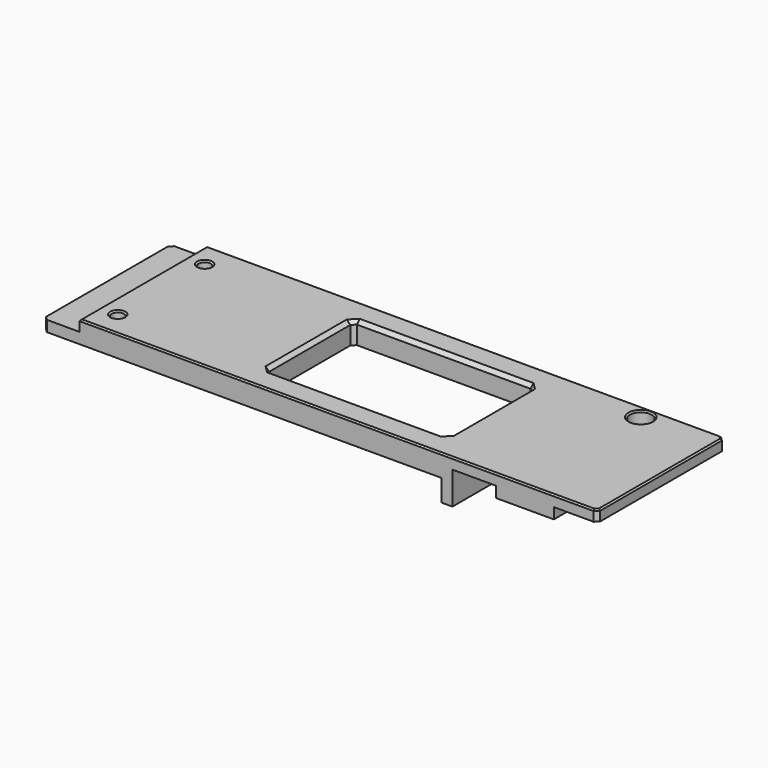
from build123d import *

# Parameters (mm, degrees)
CYLINDER031_R            = 1.7
CYLINDER031_DEPTH        = 30
CYLINDER032_R            = 1.7
CYLINDER032_DEPTH        = 30
BOX051014_W              = 50
BOX051014_H              = 30
BOX051014_DEPTH          = 6
CYLINDER027_R            = 1.7
CYLINDER027_DEPTH        = 10
CYLINDER028_R            = 3
CYLINDER028_DEPTH        = 10
BOX051013_W              = 10
BOX051013_H              = 44
BOX051013_DEPTH          = 3
BOX051015_W              = 3
BOX051015_H              = 44
BOX051015_DEPTH          = 6
BOX051010_W              = 16
BOX051010_H              = 44
BOX051010_DEPTH          = 3
BOX051009_W              = 40
BOX051009_H              = 44
BOX051009_DEPTH          = 3
BOX051011_W              = 8
BOX051011_H              = 8
BOX051011_DEPTH          = 3
BOX051012_W              = 103
BOX051012_H              = 44
BOX051012_DEPTH          = 6
CHAMFER034005002005_SIZE = 1
CHAMFER034005002006_SIZE = 0.4


with BuildPart() as cylinder031:
    # Cylinder031 → Cylinder031 (new body)
    with BuildSketch(Plane(origin=(-98, 37, -7), x_dir=(1, 0, 0), z_dir=(0, 0, 1))):
        Circle(CYLINDER031_R)
    extrude(amount=CYLINDER031_DEPTH)


with BuildPart() as fusion021005007:
    # Cylinder032 → Cylinder032 (new body)
    with BuildSketch(Plane(origin=(-98, 7, -7), x_dir=(1, 0, 0), z_dir=(0, 0, 1))):
        Circle(CYLINDER032_R)
    extrude(amount=CYLINDER032_DEPTH)

    # Fusion021005007: union Cylinder031
    add(cylinder031.part)


with BuildPart() as cube071:
    # Box051014 → Box051014 (new body)
    with BuildSketch(Plane(origin=(-57, 7, -3), x_dir=(1, 0, 0), z_dir=(0, 0, 1))):
        with Locations((25, 15)):
            Rectangle(BOX051014_W, BOX051014_H)
    extrude(amount=BOX051014_DEPTH)


with BuildPart() as cylinder027:
    # Cylinder027 → Cylinder027 (new body)
    with BuildSketch(Plane(origin=(20, 40, -5), x_dir=(1, 0, 0), z_dir=(0, 0, 1))):
        Circle(CYLINDER027_R)
    extrude(amount=CYLINDER027_DEPTH)


with BuildPart() as fusion021005005:
    # Cylinder028 → Cylinder028 (new body)
    with BuildSketch(Plane(origin=(20, 40, -1), x_dir=(1, 0, 0), z_dir=(0, 0, 1))):
        Circle(CYLINDER028_R)
    extrude(amount=CYLINDER028_DEPTH)

    # Fusion021005005: union Cylinder027
    add(cylinder027.part)


with BuildPart() as cube070:
    # Box051013 → Box051013 (new body)
    with BuildSketch(Plane(origin=(-113, 0, -3), x_dir=(1, 0, 0), z_dir=(0, 0, 1))):
        with Locations((5, 22)):
            Rectangle(BOX051013_W, BOX051013_H)
    extrude(amount=BOX051013_DEPTH)


with BuildPart() as cube072:
    # Box051015 → Box051015 (new body)
    with BuildSketch(Plane(origin=(-3, 0, -9), x_dir=(1, 0, 0), z_dir=(0, 0, 1))):
        with Locations((1.5, 22)):
            Rectangle(BOX051015_W, BOX051015_H)
    extrude(amount=BOX051015_DEPTH)


with BuildPart() as cube067:
    # Box051010 → Box051010 (new body)
    with BuildSketch(Plane(origin=(12, 0, -3), x_dir=(1, 0, 0), z_dir=(0, 0, 1))):
        with Locations((8, 22)):
            Rectangle(BOX051010_W, BOX051010_H)
    extrude(amount=BOX051010_DEPTH)


with BuildPart() as cube066:
    # Box051009 → Box051009 (new body)
    with BuildSketch(Plane.XY):
        with Locations((20, 22)):
            Rectangle(BOX051009_W, BOX051009_H)
    extrude(amount=BOX051009_DEPTH)


with BuildPart() as fusion021005004:
    # Box051011 → Box051011 (new body)
    with BuildSketch(Plane(origin=(16, 36, -5), x_dir=(1, 0, 0), z_dir=(0, 0, 1))):
        with Locations((4, 4)):
            Rectangle(BOX051011_W, BOX051011_H)
    extrude(amount=BOX051011_DEPTH)

    # Fusion021005004: union Cube067, Cube066
    add(cube067.part)
    add(cube066.part)


with BuildPart() as cable_route_base:
    # Box051012 → Box051012 (new body)
    with BuildSketch(Plane(origin=(-103, 0, -3), x_dir=(1, 0, 0), z_dir=(0, 0, 1))):
        with Locations((51.5, 22)):
            Rectangle(BOX051012_W, BOX051012_H)
    extrude(amount=BOX051012_DEPTH)

    # Fusion021005006: union Cube070, Cube072, Fusion021005004
    add(cube070.part)
    add(cube072.part)
    add(fusion021005004.part)

    # Cut018011002002: cut Fusion021005005
    add(fusion021005005.part, mode=Mode.SUBTRACT)

    # Cut018011002003: cut Cube071
    add(cube071.part, mode=Mode.SUBTRACT)

    # Cut018011002004: cut Fusion021005007
    add(fusion021005007.part, mode=Mode.SUBTRACT)

    # Chamfer034005002005
    chamfer034005002005_edges = [cable_route_base.edges().sort_by_distance(p)[0] for p in [
        (-57, 22, 3),
        (-32, 37, 3),
        (-32, 7, 3),
        (-7, 22, 3),
        (40, 0, 1.5),
        (-113, 0, -1.5),
        (-57, 7, 0),
        (-57, 37, 0),
        (-7, 37, 0),
        (-7, 7, 0),
        (40, 44, 1.5),
        (-113, 44, -1.5),
    ]]
    chamfer(chamfer034005002005_edges, length=CHAMFER034005002005_SIZE)

    # Chamfer034005002006
    chamfer034005002006_edges = [cable_route_base.edges().sort_by_distance(p)[0] for p in [
        (-103, 22, 3),
        (-51.5, 44, 3),
        (-51.5, 0, 3),
        (-99.7, 37, 3),
        (-99.7, 7, 3),
        (19.5, 0, 3),
        (39.5, 0.5, 3),
        (40, 22, 3),
        (19.5, 44, 3),
        (39.5, 43.5, 3),
        (17, 40, 3),
    ]]
    chamfer(chamfer034005002006_edges, length=CHAMFER034005002006_SIZE)


solid = cable_route_base.part
